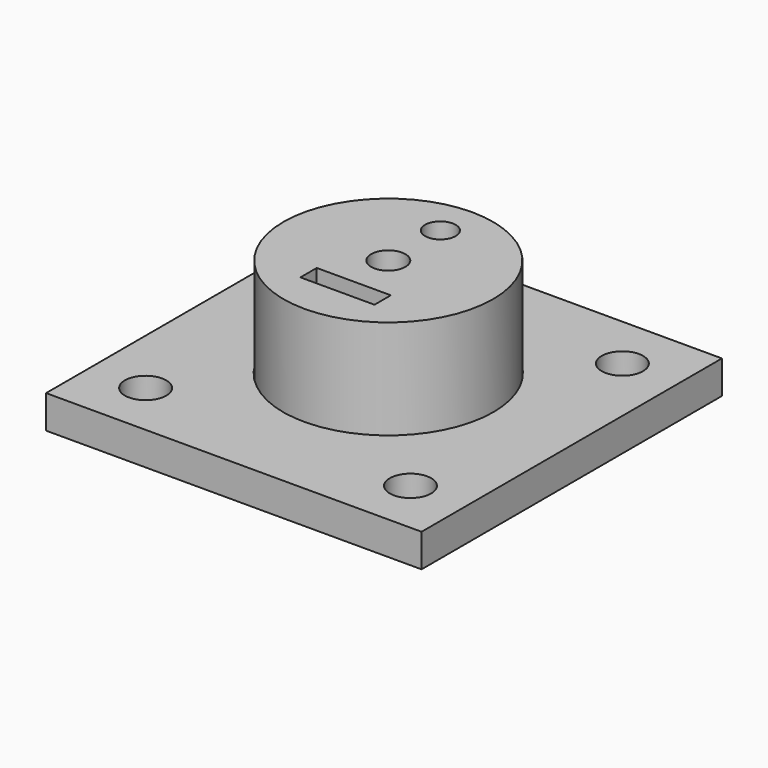
from build123d import *

# Parameters (mm, degrees)
F0_W     = 72.054242
F0_H     = 72.054242
F0_R     = 3.969913
F0_R_2   = 23.410092
F0_R_3   = 20.181298
F1_DEPTH = 6.35
F2_R     = 20.10413
F2_W     = 14.21311
F2_H     = 3.920857
F2_R_2   = 3.302
F2_R_3   = 2.93693
F3_DEPTH = 25.4


with BuildPart() as f1:
    # F0 (on Top) → F1 (new body)
    with BuildSketch(Plane.XY):
        with Locations((0, -1.026121)):
            Rectangle(F0_W, F0_H)
        with Locations((-25.418477, -26.444598)):
            Circle(F0_R, mode=Mode.SUBTRACT)
        with Locations((25.418477, -26.444598)):
            Circle(F0_R, mode=Mode.SUBTRACT)
        with Locations((-25.418477, 24.392356)):
            Circle(F0_R, mode=Mode.SUBTRACT)
        Circle(F0_R_2, mode=Mode.SUBTRACT)
        with Locations((25.418477, 24.392356)):
            Circle(F0_R, mode=Mode.SUBTRACT)
        Circle(F0_R_2)
        Circle(F0_R_3, mode=Mode.SUBTRACT)
    extrude(amount=F1_DEPTH)


with BuildPart() as f3:
    # F2 (on Top) → F3 (new body)
    with BuildSketch(Plane.XY):
        Circle(F2_R)
        with Locations((0.241342, -10.537305)):
            Rectangle(F2_W, F2_H, mode=Mode.SUBTRACT)
        Circle(F2_R_2, mode=Mode.SUBTRACT)
        with Locations((0, 12.497733)):
            Circle(F2_R_3, mode=Mode.SUBTRACT)
    extrude(amount=F3_DEPTH)


solid = Compound([f1.part, f3.part])
